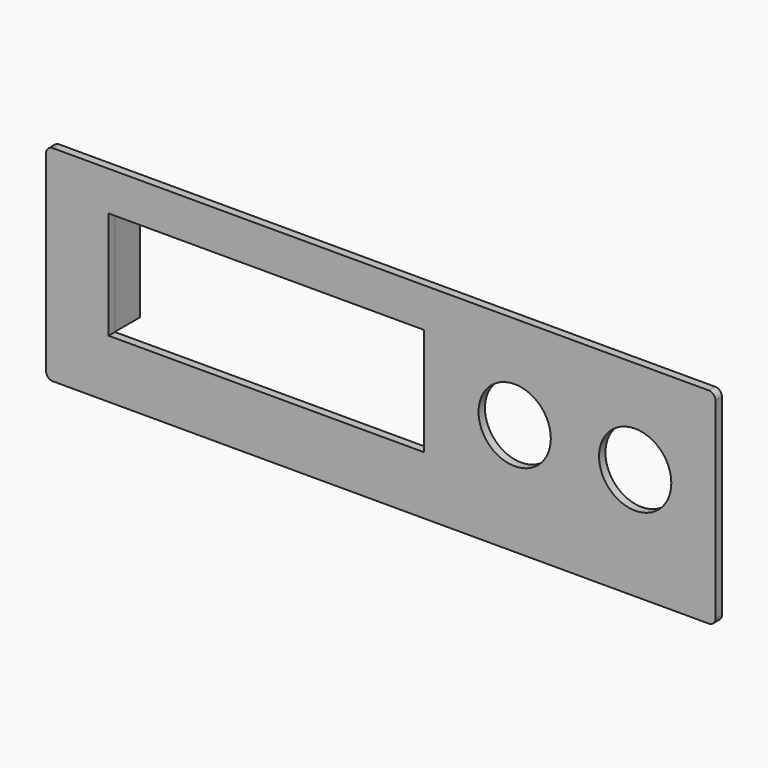
from build123d import *

# Parameters (mm, degrees)
SKETCH002_AS_DRAWN_W                      = 5.08
SKETCH002_AS_DRAWN_H                      = 24
EXTRUDE_DEPTH                             = 7.11
EXTRUDE_ONTO_SKETCH002_ROLL_ANGLE         = 90
EXTRUDE_ONTO_SKETCH002_PLACEMENT_ANGLE    = 180
SKETCH003_AS_DRAWN_W                      = 5.08
SKETCH003_AS_DRAWN_H                      = 24
EXTRUDE004_DEPTH                          = 3.3
EXTRUDE004_ONTO_SKETCH003_ROLL_ANGLE      = 90
EXTRUDE004_ONTO_SKETCH003_PLACEMENT_ANGLE = 180
BOX_W                                     = 150
BOX_H                                     = 1.8
BOX_DEPTH                                 = 46
SKETCH_W                                  = 70.612
SKETCH_H                                  = 24.13
POCKET_DEPTH                              = 1.801
SKETCH001_R                               = 8.1
POCKET001_DEPTH                           = 1.801
FILLET_R                                  = 1.5
FILLET001_R                               = 1.5
FILLET002_R                               = 1.5
FILLET003_R                               = 1.5


with BuildPart() as extrude_body:
    # Sketch002 as drawn → Extrude (new)
    with BuildSketch(Plane.XY):
        with Locations((-11.34, 25)):
            Rectangle(SKETCH002_AS_DRAWN_W, SKETCH002_AS_DRAWN_H)
    extrude(amount=EXTRUDE_DEPTH)


with BuildPart() as extrude_body_1:
    # Extrude onto Sketch002 roll: moved
    add(extrude_body.part.rotate(Axis((0, 0, 0), (1, 0, 0)), EXTRUDE_ONTO_SKETCH002_ROLL_ANGLE))


with BuildPart() as extrude_body_2:
    # Extrude onto Sketch002 placement: moved
    add(extrude_body_1.part.moved(Location((0, 1.8, 0))).rotate(Axis((0, 1.8, 0), (0, 0, 1)), EXTRUDE_ONTO_SKETCH002_PLACEMENT_ANGLE))


with BuildPart() as extrude004:
    # Sketch003 as drawn → Extrude004 (new)
    with BuildSketch(Plane.XY):
        with Locations((-87.54, 25)):
            Rectangle(SKETCH003_AS_DRAWN_W, SKETCH003_AS_DRAWN_H)
    extrude(amount=EXTRUDE004_DEPTH)


with BuildPart() as extrude004_1:
    # Extrude004 onto Sketch003 roll: moved
    add(extrude004.part.rotate(Axis((0, 0, 0), (1, 0, 0)), EXTRUDE004_ONTO_SKETCH003_ROLL_ANGLE))


with BuildPart() as extrude004_2:
    # Extrude004 onto Sketch003 placement: moved
    add(extrude004_1.part.moved(Location((0, 1.8, 0))).rotate(Axis((0, 1.8, 0), (0, 0, 1)), EXTRUDE004_ONTO_SKETCH003_PLACEMENT_ANGLE))


with BuildPart() as fusion:
    # Box → Box (new body)
    with BuildSketch(Plane.XY):
        with Locations((75, 0.9)):
            Rectangle(BOX_W, BOX_H)
    extrude(amount=BOX_DEPTH)

    # Sketch → Pocket (cut, through all)
    with BuildSketch(Plane.XZ):
        with Locations((49.323872, 25.120575)):
            Rectangle(SKETCH_W, SKETCH_H)
    extrude(amount=-POCKET_DEPTH, mode=Mode.SUBTRACT)

    # Sketch001 → Pocket001 (cut, through all)
    with BuildSketch(Plane.XZ):
        with Locations((105, 25)):
            Circle(SKETCH001_R)
        with Locations((132, 25)):
            Circle(SKETCH001_R)
    extrude(amount=-POCKET001_DEPTH, mode=Mode.SUBTRACT)

    # Fillet
    fillet_edges = [fusion.edges().sort_by_distance(p)[0] for p in [
        (150, 0.9, 46),
    ]]
    fillet(fillet_edges, radius=FILLET_R)

    # Fillet001
    fillet001_edges = [fusion.edges().sort_by_distance(p)[0] for p in [
        (0, 0.9, 46),
    ]]
    fillet(fillet001_edges, radius=FILLET001_R)

    # Fillet002
    fillet002_edges = [fusion.edges().sort_by_distance(p)[0] for p in [
        (0, 0.9, 0),
    ]]
    fillet(fillet002_edges, radius=FILLET002_R)

    # Fillet003
    fillet003_edges = [fusion.edges().sort_by_distance(p)[0] for p in [
        (150, 0.9, 0),
    ]]
    fillet(fillet003_edges, radius=FILLET003_R)

    # Fusion: union Extrude body, Extrude004
    add(extrude_body_2.part)
    add(extrude004_2.part)


solid = fusion.part
